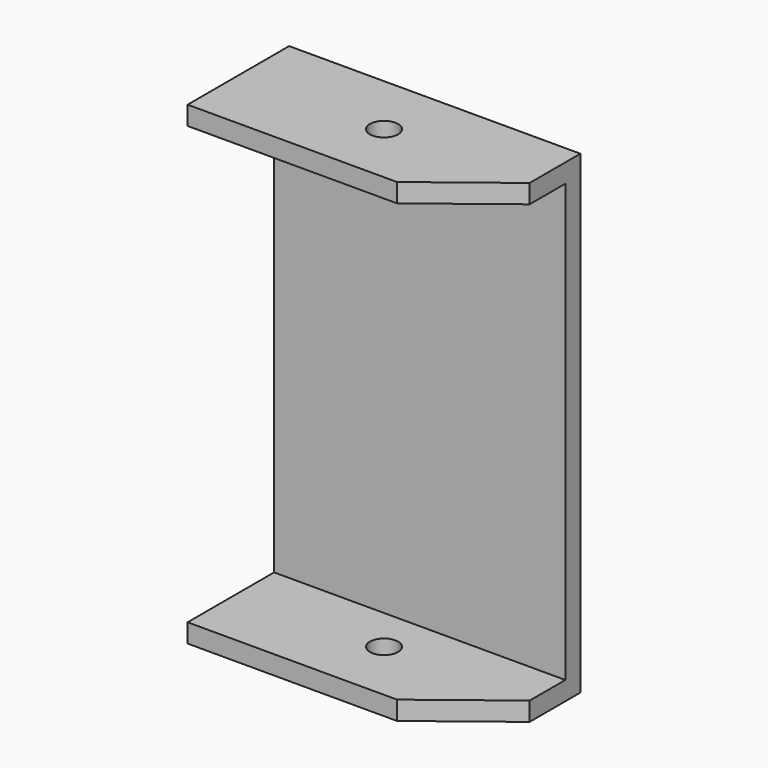
from build123d import *

# Parameters (mm, degrees)
F1_DEPTH = 31
F2_R     = 1.5
F3_DEPTH = 77


with BuildPart() as f1:
    # F0 (on Right) → F1 (new body)
    with BuildSketch(Plane.YZ):
        Polygon((-11.5, 7.564849), (0, 7.564849), (0, -38.935151), (-11.5, -38.935151), (-11.5, -40.935151), (2, -40.935151), (2, 9.564849), (-11.5, 9.564849), align=None)
    extrude(amount=F1_DEPTH)

    # F2 (on face) → F3 (cut)
    with BuildSketch(Plane.XY.offset(9.564849)):
        with Locations((15.5, -4.75)):
            Circle(F2_R)
        Polygon((22.288591, -11.5), (31, -11.5), (31, -4.75), align=None)
    extrude(amount=-F3_DEPTH, mode=Mode.SUBTRACT)


solid = f1.part
